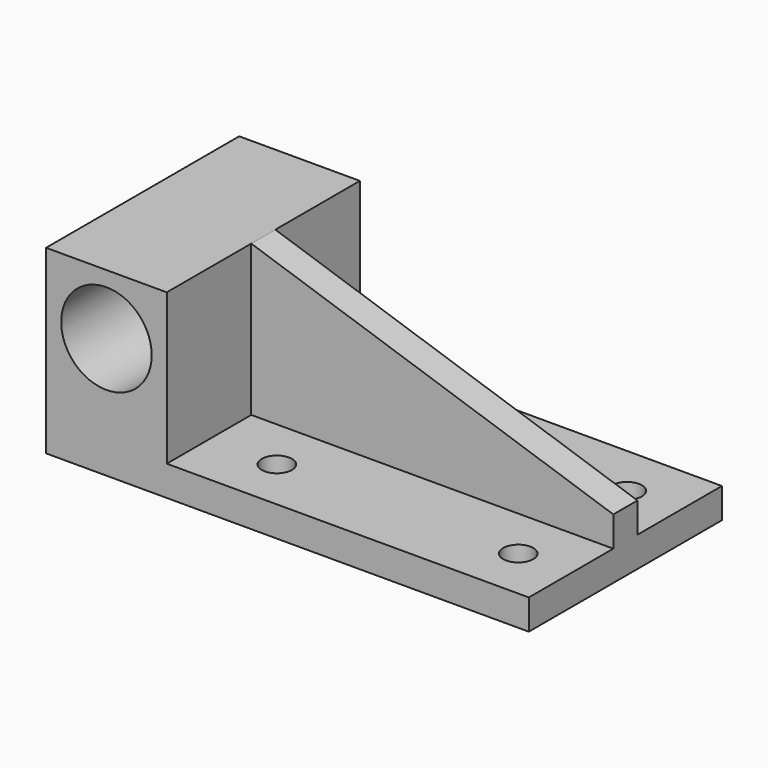
from build123d import *

# Parameters (mm, degrees)
F0_R     = 9.525
F1_DEPTH = 25.4
F3_DEPTH = 3.175
F4_R     = 3.175
F5_DEPTH = 25.4


with BuildPart() as f1:
    # F0 (on Front) → F1 (new body)
    with BuildSketch(Plane.XZ):
        Polygon((-25.4, -12.7), (-25.4, 19.05), (-50.8, 19.05), (-50.8, -19.05), (50.8, -19.05), (50.8, -12.7), align=None)
        with Locations((-38.1, 6.35)):
            Circle(F0_R, mode=Mode.SUBTRACT)
    extrude(amount=F1_DEPTH)

    # F2 (on Front) → F3 (join)
    with BuildSketch(Plane.XZ):
        Polygon((50.8, -6.35), (-25.4, 19.05), (-25.4, -12.7), (50.8, -12.7), align=None)
    extrude(amount=F3_DEPTH)

    # F4 (on face) → F5 (cut)
    with BuildSketch(Plane.XY.offset(-12.7)):
        with Locations((39.6875, -14.2875)):
            Circle(F4_R)
        with Locations((-11.1125, -14.3002)):
            Circle(F4_R)
    extrude(amount=-F5_DEPTH, mode=Mode.SUBTRACT)

    # F6: F1 across plane


with BuildPart() as f1_1:
    add(f1.part)
    add(f1.part.mirror(Plane.XZ))


solid = f1_1.part
